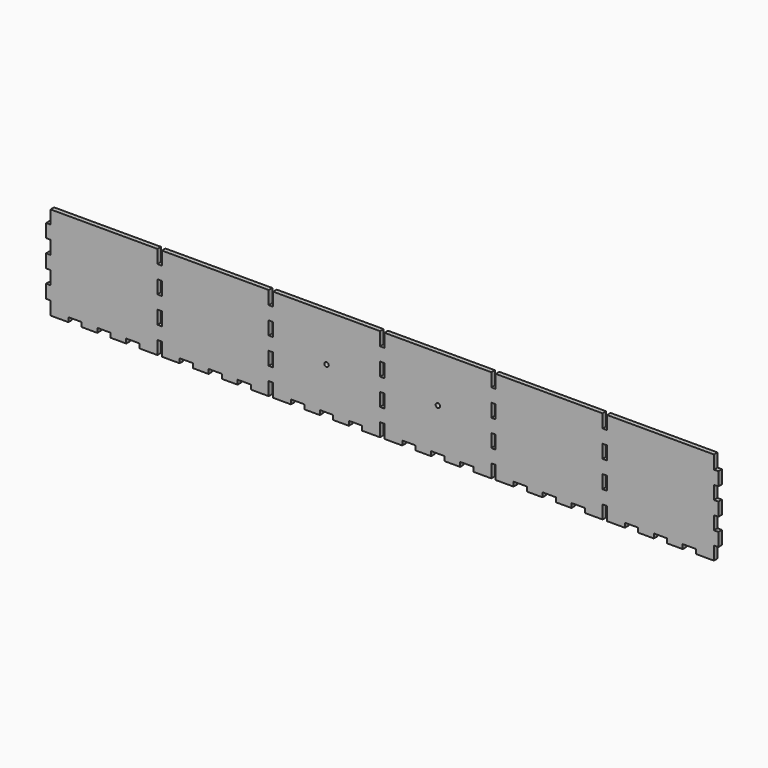
from build123d import *

# Parameters (mm, degrees)
F0_W     = 479.425
F0_H     = 66.675
F1_DEPTH = 3.175
F2_W     = 3.175
F2_H     = 9.525
F3_DEPTH = 3.176
F4_W     = 9.525
F4_H     = 3.175
F5_DEPTH = 3.176
F6_R     = 1.5875
F7_DEPTH = 3.176


with BuildPart() as f1:
    # F0 (on Front) → F1 (new body)
    with BuildSketch(Plane.XZ):
        Rectangle(F0_W, F0_H)
    extrude(amount=F1_DEPTH)

    # F2 (on face) → F3 (cut, through all)
    with BuildSketch(Plane.XZ.offset(3.175)):
        with Locations((-238.125, -28.575)):
            Rectangle(F2_W, F2_H)
        with Locations((-238.125, -9.525)):
            Rectangle(F2_W, F2_H)
        with Locations((-238.125, 9.525)):
            Rectangle(F2_W, F2_H)
        with Locations((-238.125, 28.575)):
            Rectangle(F2_W, F2_H)
        with Locations((-158.75, -28.575)):
            Rectangle(F2_W, F2_H)
        with Locations((-158.75, -9.525)):
            Rectangle(F2_W, F2_H)
        with Locations((-158.75, 9.525)):
            Rectangle(F2_W, F2_H)
        with Locations((-158.75, 28.575)):
            Rectangle(F2_W, F2_H)
        with Locations((-79.375, -28.575)):
            Rectangle(F2_W, F2_H)
        with Locations((-79.375, -9.525)):
            Rectangle(F2_W, F2_H)
        with Locations((-79.375, 9.525)):
            Rectangle(F2_W, F2_H)
        with Locations((-79.375, 28.575)):
            Rectangle(F2_W, F2_H)
        with Locations((0, -28.575)):
            Rectangle(F2_W, F2_H)
        with Locations((0, -9.525)):
            Rectangle(F2_W, F2_H)
        with Locations((0, 9.525)):
            Rectangle(F2_W, F2_H)
        with Locations((0, 28.575)):
            Rectangle(F2_W, F2_H)
        with Locations((79.375, -28.575)):
            Rectangle(F2_W, F2_H)
        with Locations((79.375, -9.525)):
            Rectangle(F2_W, F2_H)
        with Locations((79.375, 9.525)):
            Rectangle(F2_W, F2_H)
        with Locations((79.375, 28.575)):
            Rectangle(F2_W, F2_H)
        with Locations((158.75, -28.575)):
            Rectangle(F2_W, F2_H)
        with Locations((158.75, -9.525)):
            Rectangle(F2_W, F2_H)
        with Locations((158.75, 9.525)):
            Rectangle(F2_W, F2_H)
        with Locations((158.75, 28.575)):
            Rectangle(F2_W, F2_H)
        with Locations((238.125, -28.575)):
            Rectangle(F2_W, F2_H)
        with Locations((238.125, -9.525)):
            Rectangle(F2_W, F2_H)
        with Locations((238.125, 9.525)):
            Rectangle(F2_W, F2_H)
        with Locations((238.125, 28.575)):
            Rectangle(F2_W, F2_H)
    extrude(amount=-F3_DEPTH, mode=Mode.SUBTRACT)

    # F4 (on face) → F5 (cut, through all)
    with BuildSketch(Plane.XZ.offset(3.175)):
        with Locations((-219.075, -31.75)):
            Rectangle(F4_W, F4_H)
        with Locations((-198.4375, -31.75)):
            Rectangle(F4_W, F4_H)
        with Locations((-177.8, -31.75)):
            Rectangle(F4_W, F4_H)
        with Locations((-139.7, -31.75)):
            Rectangle(F4_W, F4_H)
        with Locations((-119.0625, -31.75)):
            Rectangle(F4_W, F4_H)
        with Locations((-98.425, -31.75)):
            Rectangle(F4_W, F4_H)
        with Locations((-60.325, -31.75)):
            Rectangle(F4_W, F4_H)
        with Locations((-39.6875, -31.75)):
            Rectangle(F4_W, F4_H)
        with Locations((-19.05, -31.75)):
            Rectangle(F4_W, F4_H)
        with Locations((19.05, -31.75)):
            Rectangle(F4_W, F4_H)
        with Locations((39.6875, -31.75)):
            Rectangle(F4_W, F4_H)
        with Locations((60.325, -31.75)):
            Rectangle(F4_W, F4_H)
        with Locations((98.425, -31.75)):
            Rectangle(F4_W, F4_H)
        with Locations((119.0625, -31.75)):
            Rectangle(F4_W, F4_H)
        with Locations((139.7, -31.75)):
            Rectangle(F4_W, F4_H)
        with Locations((177.8, -31.75)):
            Rectangle(F4_W, F4_H)
        with Locations((198.4375, -31.75)):
            Rectangle(F4_W, F4_H)
        with Locations((219.075, -31.75)):
            Rectangle(F4_W, F4_H)
    extrude(amount=-F5_DEPTH, mode=Mode.SUBTRACT)

    # F6 (on face) → F7 (cut, through all)
    with BuildSketch(Plane.XZ.offset(3.175)):
        with Locations((-39.6875, 0)):
            Circle(F6_R)
        with Locations((39.6875, 0)):
            Circle(F6_R)
    extrude(amount=-F7_DEPTH, mode=Mode.SUBTRACT)


solid = f1.part
